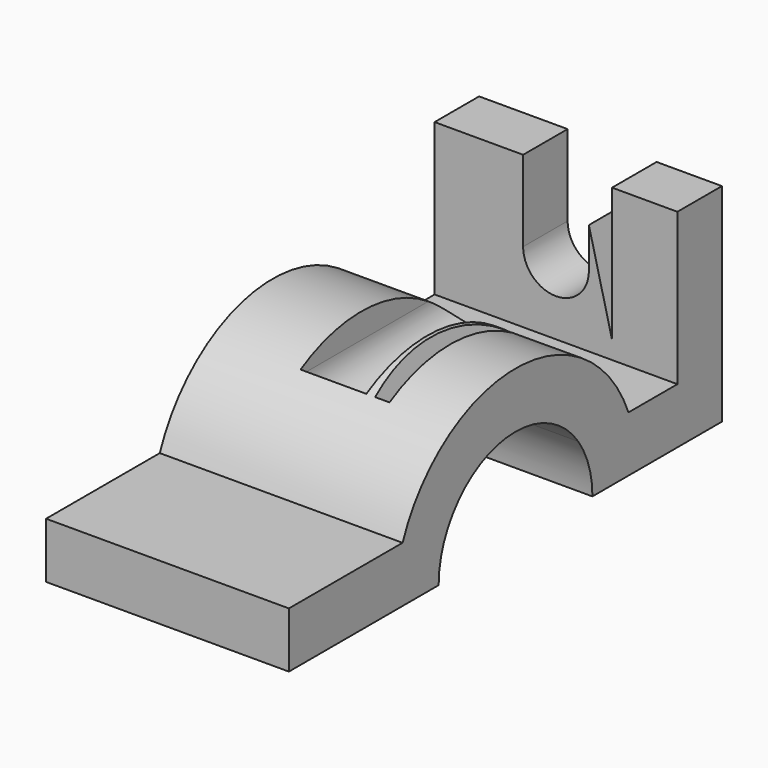
from build123d import *

# Parameters (mm, degrees)
F0_W     = 11
F0_H     = 30
F1_DEPTH = 24
F3_DEPTH = 66


with BuildPart() as f1:
    # F0 (on Right) → F1 (new body, symmetric)
    with BuildSketch(Plane.YZ):
        with BuildLine():
            ThreePointArc((-15.4919333848, 11), (0, 19), (15.4919333848, 11))
            Line((15.4919333848, 11), (27.9105714739, 11))
            ThreePointArc((27.9105714739, 11), (0, 30), (-27.9105714739, 11))
            Line((-27.9105714739, 11), (-15.4919333848, 11))
        make_face()
        with BuildLine():
            ThreePointArc((27.9105714739, 11), (29.4730143031, 5.5983415304), (30, 0))
            Line((30, 0), (51, 0))
            Line((51, 0), (51, 11))
            Line((51, 11), (40, 11))
            Line((40, 11), (27.9105714739, 11))
        make_face()
        with BuildLine():
            ThreePointArc((15.4919333848, 11), (18.1017503893, 5.7729223833), (19, 0))
            Line((19, 0), (30, 0))
            ThreePointArc((30, 0), (29.4730143031, 5.5983415304), (27.9105714739, 11))
            Line((27.9105714739, 11), (15.4919333848, 11))
        make_face()
        with Locations((45.5, 26)):
            Rectangle(F0_W, F0_H)
        with BuildLine():
            Line((-56, 0), (-30, 0))
            ThreePointArc((-30, 0), (-29.4730143031, 5.5983415304), (-27.9105714739, 11))
            Line((-27.9105714739, 11), (-56, 11))
            Line((-56, 11), (-56, 0))
        make_face()
        with BuildLine():
            Line((-30, 0), (-19, 0))
            ThreePointArc((-19, 0), (-18.1017503893, 5.7729223833), (-15.4919333848, 11))
            Line((-15.4919333848, 11), (-27.9105714739, 11))
            ThreePointArc((-27.9105714739, 11), (-29.4730143031, 5.5983415304), (-30, 0))
        make_face()
    extrude(amount=F1_DEPTH, both=True)

    # F2 (on face) → F3 (cut, through all)
    with BuildSketch(Plane(origin=(0, 51, 0), x_dir=(-1, 0, 0), z_dir=(0, 1, 0))):
        with BuildLine():
            ThreePointArc((-6.5, 25), (0, 18.5), (6.5, 25))
            ThreePointArc((6.5, 25), (0, 31.5), (-6.5, 25))
        make_face()
        Polygon((-11.0844168812, 14.5103828982), (-6.5, 33), (-6.5, 41), (-11.0844168812, 41), align=None)
        with BuildLine():
            ThreePointArc((-6.5, 25), (0, 31.5), (6.5, 25))
            Line((6.5, 25), (6.5, 41))
            Line((6.5, 41), (-6.5, 41))
            Line((-6.5, 41), (-6.5, 33))
            Line((-6.5, 33), (-6.5, 25))
        make_face()
    extrude(amount=-F3_DEPTH, mode=Mode.SUBTRACT)


solid = f1.part
